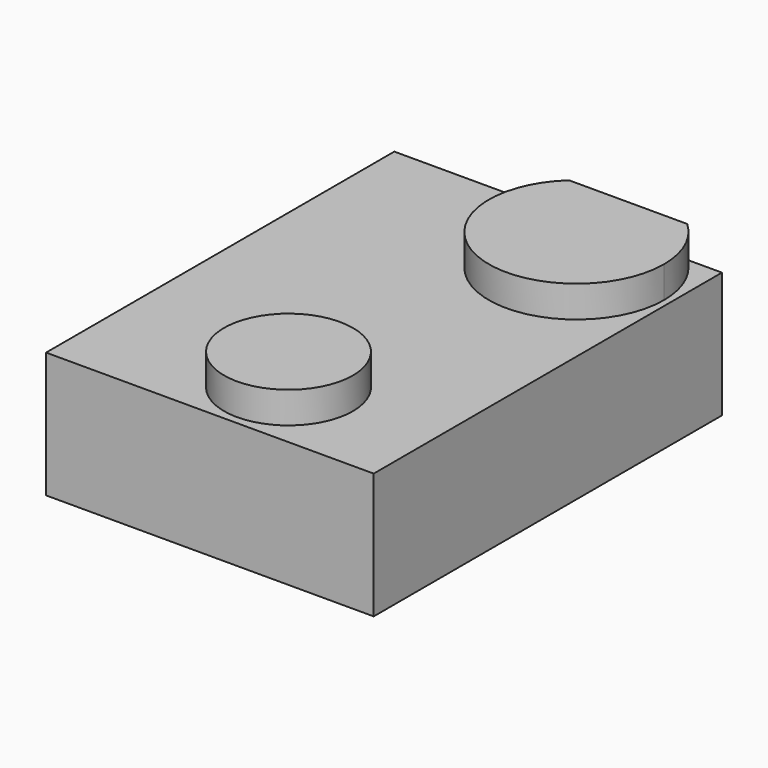
from build123d import *

# Parameters (mm, degrees)
F0_W     = 66.183033
F0_H     = 87.93332
F1_DEPTH = 25.4
F2_R     = 13.013131
F3_DEPTH = 6.35
F4_DEPTH = 6.3754


with BuildPart() as f1:
    # F0 (on Top) → F1 (new body)
    with BuildSketch(Plane.XY):
        with Locations((-4.194698, 2.330387)):
            Rectangle(F0_W, F0_H)
    extrude(amount=F1_DEPTH)

    # F2 (on face) → F3 (join)
    with BuildSketch(Plane.XY.offset(25.4)):
        with Locations((0, -27.032504)):
            Circle(F2_R)
    extrude(amount=F3_DEPTH)

    # F2 (on face) → F4 (join)
    with BuildSketch(Plane.XY.offset(25.4)):
        with BuildLine():
            ThreePointArc((-1.99442, 46.297047), (2.81281, 17.061409), (27.629392, 33.246875))
            ThreePointArc((27.629392, 33.246875), (26.128457, 40.377055), (21.880402, 46.297047))
            Line((21.880402, 46.297047), (-1.99442, 46.297047))
        make_face()
    extrude(amount=F4_DEPTH)


solid = f1.part
